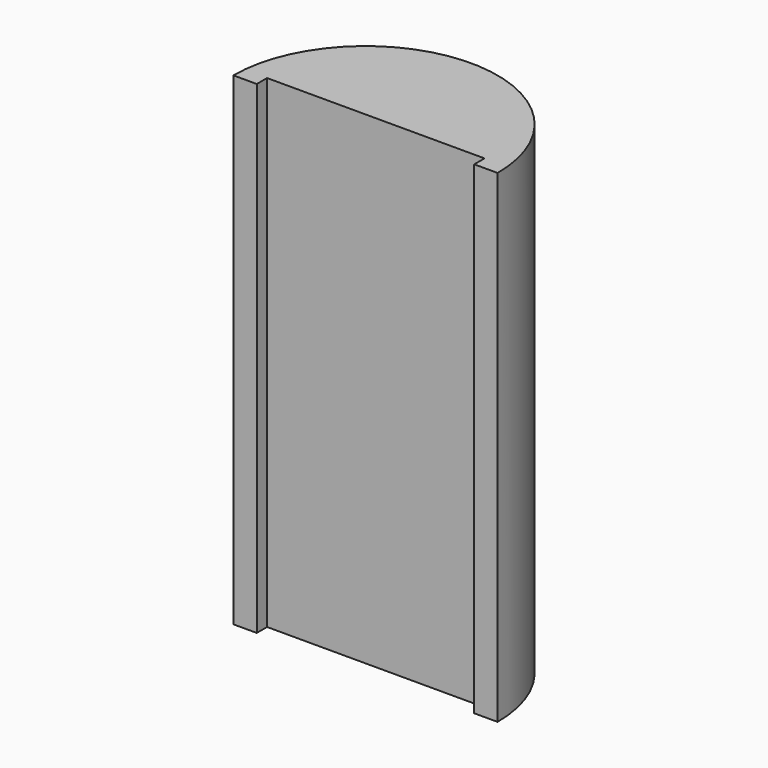
from build123d import *

# Parameters (mm, degrees)
F1_DEPTH = 30


with BuildPart() as f1:
    # F0 (on Top) → F1 (new body)
    with BuildSketch(Plane.XY):
        with BuildLine():
            ThreePointArc((8.2, 0), (0, 8.2), (-8.2, 0))
            Line((-8.2, 0), (-6.75, 0))
            Line((-6.75, 0), (-6.75, 0.8))
            Line((-6.75, 0.8), (6.75, 0.8))
            Line((6.75, 0.8), (6.75, 0))
            Line((6.75, 0), (8.2, 0))
        make_face()
    extrude(amount=F1_DEPTH)


solid = f1.part
